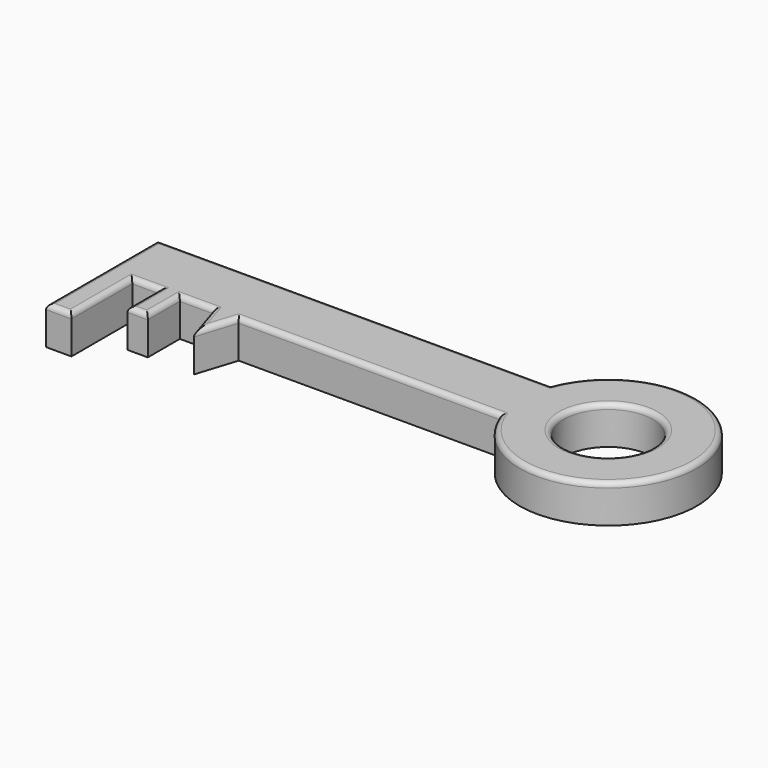
from build123d import *

# Parameters (mm, degrees)
F0_R     = 17.5
F0_W     = 8
F0_H     = 15.7797911583
F0_W_2   = 10
F0_H_2   = 30
F1_DEPTH = 15
F2_R     = 2


with BuildPart() as f1:
    # F0 (on Top) → F1 (new body)
    with BuildSketch(Plane.XY):
        with BuildLine():
            Line((-103.0521765351, 15.7797911583), (0, 15.7797911583))
            ThreePointArc((0, 15.7797911583), (67.6917420766, 28.2797911583), (0, 40.7797911583))
            Line((0, 40.7797911583), (-155, 40.7797911583))
            Line((-155, 40.7797911583), (-155, 15.7797911583))
            Line((-155, 15.7797911583), (-145, 15.7797911583))
            Line((-145, 15.7797911583), (-134.25501436, 15.7797911583))
            Line((-134.25501436, 15.7797911583), (-126.25501436, 15.7797911583))
            Line((-126.25501436, 15.7797911583), (-113.0521765351, 15.7797911583))
            Line((-113.0521765351, 15.7797911583), (-103.0521765351, 15.7797911583))
        make_face()
        with Locations((32.6917420766, 28.2797911583)):
            Circle(F0_R, mode=Mode.SUBTRACT)
        Polygon((-108.0521765351, 0), (-103.0521765351, 15.7797911583), (-113.0521765351, 15.7797911583), align=None)
        with Locations((-130.25501436, 7.8898955792)):
            Rectangle(F0_W, F0_H)
        with Locations((-150, 0.7797911583)):
            Rectangle(F0_W_2, F0_H_2)
    extrude(amount=F1_DEPTH)

    # F2
    f2_edges = [f1.edges().sort_by_distance(p)[0] for p in [
        (-139.627507, 15.779791, 15),
        (-134.255014, 7.889896, 15),
        (-130.255014, 0, 15),
        (-126.255014, 7.889896, 15),
        (-119.653595, 15.779791, 15),
        (-110.552177, 7.889896, 15),
        (-105.552177, 7.889896, 15),
        (-51.526088, 15.779791, 15),
        (67.691742, 28.279791, 15),
        (-77.5, 40.779791, 15),
        (-155, 13.279791, 15),
        (-150, -14.220209, 15),
        (-145, 0.779791, 15),
        (15.191742, 28.279791, 15),
    ]]
    fillet(f2_edges, radius=F2_R)


solid = f1.part
